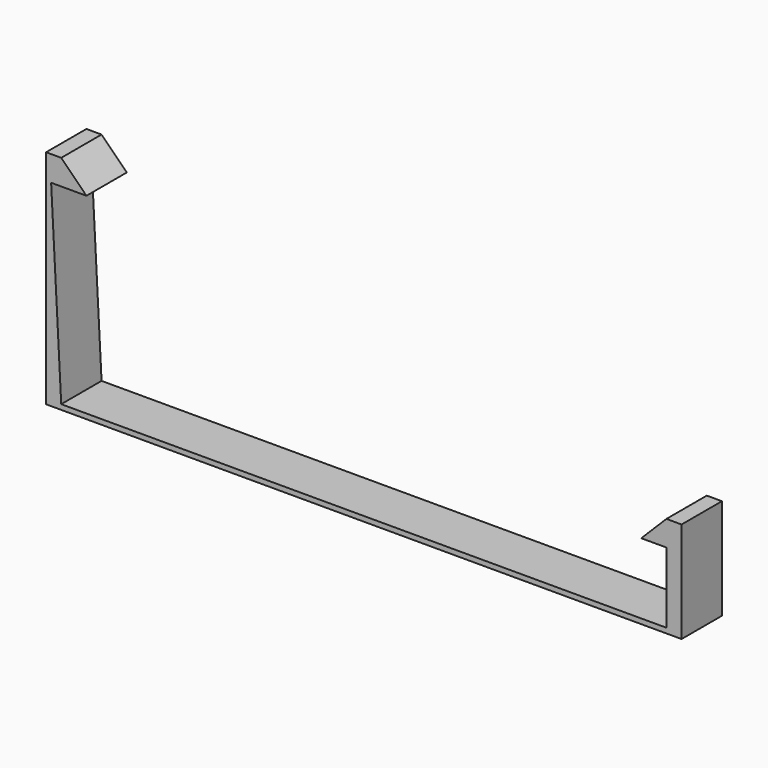
from build123d import *

# Parameters (mm, degrees)
F0_W     = 126
F0_H     = 1
F1_DEPTH = 10
F2_W     = 3
F2_H     = 10
F3_DEPTH = 43
F4_DEPTH = 19
F6_DEPTH = 10
F7_DEPTH = 10
F9_DEPTH = 25


with BuildPart() as f1:
    # F0 (on Front) → F1 (new body)
    with BuildSketch(Plane.XZ):
        with Locations((0, 0.5)):
            Rectangle(F0_W, F0_H)
    extrude(amount=F1_DEPTH)

    # F2 (on face) → F3 (join)
    with BuildSketch(Plane.XY.offset(1)):
        with Locations((-61.5, -5)):
            Rectangle(F2_W, F2_H)
    extrude(amount=F3_DEPTH)

    # F2 (on face) → F4 (join)
    with BuildSketch(Plane.XY.offset(1)):
        with Locations((61.5, -5)):
            Rectangle(F2_W, F2_H)
    extrude(amount=F4_DEPTH)

    # F5 (on face) → F6 (join)
    with BuildSketch(Plane.XZ.offset(10)):
        Polygon((-55, 39), (-60, 44), (-60, 39), align=None)
    extrude(amount=-F6_DEPTH)

    # F5 (on face) → F7 (join)
    with BuildSketch(Plane.XZ.offset(10)):
        Polygon((55, 15), (60, 15), (60, 20), align=None)
    extrude(amount=-F7_DEPTH)

    # F8 (on face) → F9 (cut)
    with BuildSketch(Plane.XZ.offset(10)):
        Polygon((-62, 39), (-60, 1), (-60, 39), align=None)
    extrude(amount=-F9_DEPTH, mode=Mode.SUBTRACT)


solid = f1.part
